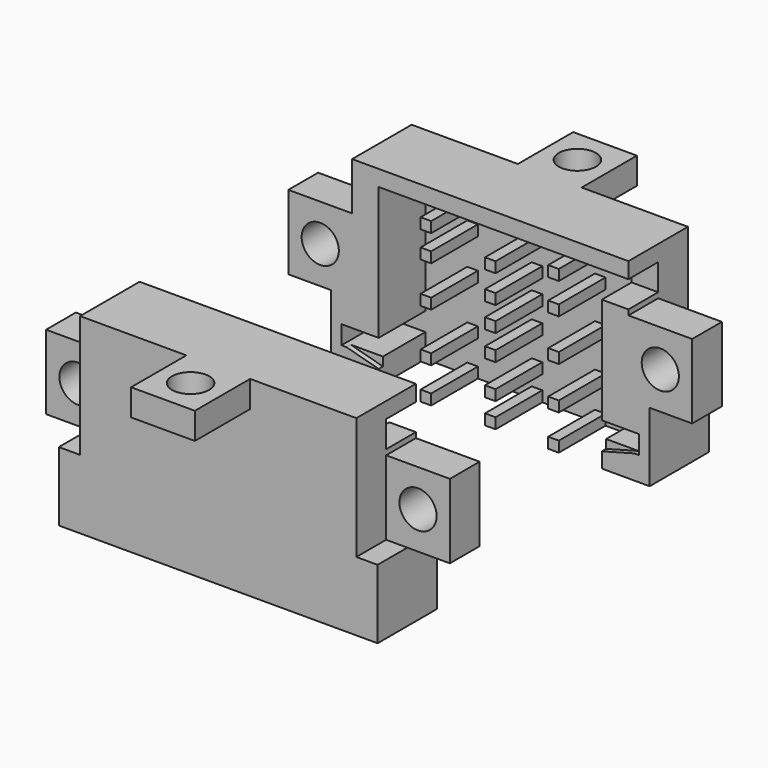
from build123d import *

# Parameters (mm, degrees)
F0_W      = 60
F0_H      = 14
F1_DEPTH  = 36
F3_W      = 42
F3_H      = 11
F4_DEPTH  = 25
F5_W      = 42
F5_H      = 4.5
F6_DEPTH  = 11
F7_W      = 8
F7_H      = 14
F8_DEPTH  = 14
F9_R      = 3.5
F10_DEPTH = 14
F11_W     = 12
F11_H     = 14
F12_DEPTH = 7
F13_W     = 4
F13_H     = 9
F14_DEPTH = 14
F15_W     = 7
F15_H     = 5
F16_DEPTH = 5
F18_DEPTH = 1
F19_W     = 12
F19_H     = 5
F20_DEPTH = 13
F21_R     = 3.5
F22_DEPTH = 5
F25_W     = 2
F25_H     = 2
F26_DEPTH = 11


with BuildPart() as f1:
    # F0 (on Top) → F1 (new body)
    with BuildSketch(Plane.XY):
        Rectangle(F0_W, F0_H)
    extrude(amount=F1_DEPTH)

    # F3 (on offset) → F4 (cut)
    with BuildSketch(Plane.XY.offset(33)):
        with Locations((0, 1.5)):
            Rectangle(F3_W, F3_H)
    extrude(amount=-F4_DEPTH, mode=Mode.SUBTRACT)

    # F5 (on face) → F6 (cut)
    with BuildSketch(Plane(origin=(0, 7, 0), x_dir=(-1, 0, 0), z_dir=(0, 1, 0))):
        Polygon((21, 4.5), (28, 4.5), (28, 8), (-28, 8), (-28, 4.5), (-21, 4.5), align=None)
        with Locations((0, 2.25)):
            Rectangle(F5_W, F5_H)
    extrude(amount=-F6_DEPTH, mode=Mode.SUBTRACT)

    # F7 (on face) → F8 (join)
    with BuildSketch(Plane(origin=(0, 7, 0), x_dir=(-1, 0, 0), z_dir=(0, 1, 0))):
        with Locations((34, 20)):
            Rectangle(F7_W, F7_H)
        with Locations((-34, 20)):
            Rectangle(F7_W, F7_H)
    extrude(amount=-F8_DEPTH)

    # F9 (on face) → F10 (cut)
    with BuildSketch(Plane(origin=(0, 7, 0), x_dir=(-1, 0, 0), z_dir=(0, 1, 0))):
        with Locations((32, 20)):
            Circle(F9_R)
        with Locations((-32, 20)):
            Circle(F9_R)
    extrude(amount=-F10_DEPTH, mode=Mode.SUBTRACT)

    # F11 (on face) → F12 (cut)
    with BuildSketch(Plane.XZ.offset(7)):
        with Locations((32, 20)):
            Rectangle(F11_W, F11_H)
        with Locations((-32, 20)):
            Rectangle(F11_W, F11_H)
    extrude(amount=-F12_DEPTH, mode=Mode.SUBTRACT)

    # F13 (on face) → F14 (cut)
    with BuildSketch(Plane.XZ.offset(7)):
        with Locations((28, 31.5)):
            Rectangle(F13_W, F13_H)
        with Locations((-28, 31.5)):
            Rectangle(F13_W, F13_H)
    extrude(amount=-F14_DEPTH, mode=Mode.SUBTRACT)

    # F15 (on face) → F16 (cut)
    with BuildSketch(Plane.YZ.offset(26)):
        with Locations((3.5, 30.5)):
            Rectangle(F15_W, F15_H)
    extrude(amount=-F16_DEPTH, mode=Mode.SUBTRACT)

    # F17 (on face) → F18 (cut)
    with BuildSketch(Plane(origin=(0, 7, 0), x_dir=(-1, 0, 0), z_dir=(0, 1, 0))):
        Polygon((-27.090767, 4.5), (-21, 2.861343), (-21, 4.5), align=None)
        Polygon((21, 4.5), (21, 2.861343), (27.090767, 4.5), align=None)
    extrude(amount=-F18_DEPTH, mode=Mode.SUBTRACT)

    # F19 (on face) → F20 (join)
    with BuildSketch(Plane.XZ.offset(7)):
        with Locations((0, 33.5)):
            Rectangle(F19_W, F19_H)
    extrude(amount=F20_DEPTH)

    # F21 (on face) → F22 (cut)
    with BuildSketch(Plane(origin=(0, 0, 31), x_dir=(1, 0, 0), z_dir=(0, 0, -1))):
        with Locations((0, 13.5)):
            Circle(F21_R)
    extrude(amount=-F22_DEPTH, mode=Mode.SUBTRACT)

    # F25 (on face) → F26 (join)
    with BuildSketch(Plane(origin=(0, -4, 0), x_dir=(-1, 0, 0), z_dir=(0, 1, 0))):
        with Locations((0, 1)):
            Rectangle(F25_W, F25_H)
        with Locations((0, 5.655716)):
            Rectangle(F25_W, F25_H)
        with Locations((0, 12.112861)):
            Rectangle(F25_W, F25_H)
        with Locations((0, 16.924154)):
            Rectangle(F25_W, F25_H)
        with Locations((0, 21.568386)):
            Rectangle(F25_W, F25_H)
        with Locations((0, 26.847442)):
            Rectangle(F25_W, F25_H)
        with Locations((12.122143, 1)):
            Rectangle(F25_W, F25_H)
        with Locations((12.122143, 7.655716)):
            Rectangle(F25_W, F25_H)
        with Locations((12.122143, 16.872294)):
            Rectangle(F25_W, F25_H)
        with Locations((12.122143, 24.552066)):
            Rectangle(F25_W, F25_H)
        with Locations((12.122143, 29.55527)):
            Rectangle(F25_W, F25_H)
        with Locations((-11.902618, 1)):
            Rectangle(F25_W, F25_H)
        with Locations((-11.902618, 7.655716)):
            Rectangle(F25_W, F25_H)
        with Locations((-11.902618, 15.678002)):
            Rectangle(F25_W, F25_H)
        with Locations((-11.902618, 23.568386)):
            Rectangle(F25_W, F25_H)
        with Locations((-11.902618, 29.441275)):
            Rectangle(F25_W, F25_H)
    extrude(amount=F26_DEPTH)


with BuildPart() as f24_1:
    # F24: instance of F1
    add(f1.part.mirror(Plane(origin=(-18.525055, 32, 22.958513), x_dir=(-1, 0, 0), z_dir=(0, 1, 0))))

    # F27: F1 across plane
    add(f1.part.mirror(Plane(origin=(-18.525055, 32, 22.958513), x_dir=(-1, 0, 0), z_dir=(0, 1, 0))))


solid = Compound([f1.part, f24_1.part])
